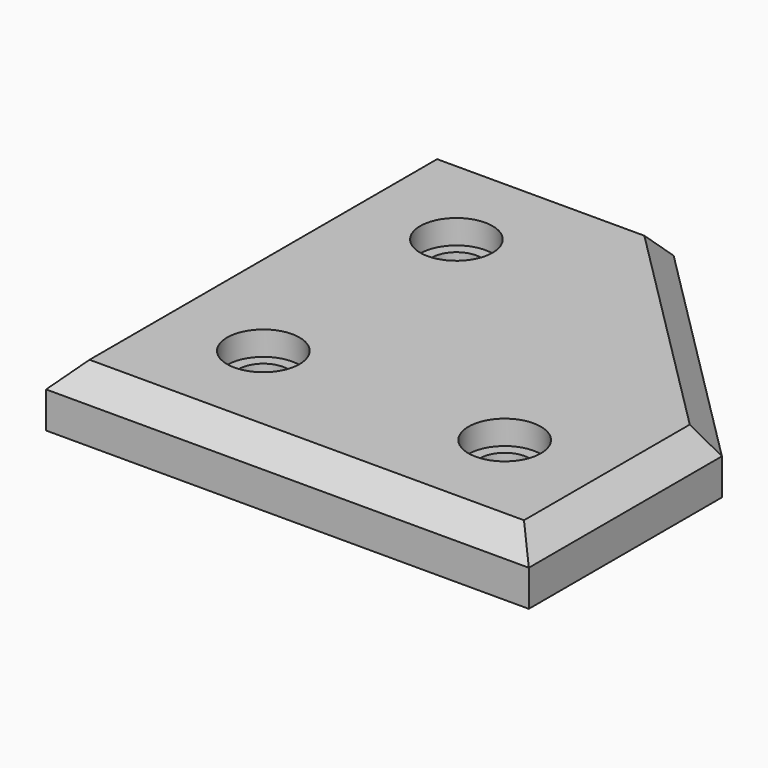
from build123d import *

# Parameters (mm, degrees)
SKETCH_R         = 2.05
EXTRUDE001_DEPTH = 5
CHAMFER_SIZE     = 2
SKETCH001_R      = 3
POCKET_DEPTH     = 2


with BuildPart() as part:
    # Sketch → Extrude001 (new body)
    with BuildSketch(Plane.XY):
        Polygon((0, 0), (0, 40), (20, 40), (40, 20), (40, 0), align=None)
        with Locations((10, 10)):
            Circle(SKETCH_R, mode=Mode.SUBTRACT)
        with Locations((10, 30)):
            Circle(SKETCH_R, mode=Mode.SUBTRACT)
        with Locations((30, 10)):
            Circle(SKETCH_R, mode=Mode.SUBTRACT)
    extrude(amount=EXTRUDE001_DEPTH)

    # Chamfer
    chamfer_edges = [part.edges().sort_by_distance(p)[0] for p in [
        (0, 20, 5),
        (10, 40, 5),
        (30, 30, 5),
        (40, 10, 5),
        (20, 0, 5),
    ]]
    chamfer(chamfer_edges, length=CHAMFER_SIZE)

    # Sketch001 → Pocket (cut)
    with BuildSketch(Plane.XY.offset(5)):
        with Locations((10, 30)):
            Circle(SKETCH001_R)
        with Locations((10, 10)):
            Circle(SKETCH001_R)
        with Locations((30, 10)):
            Circle(SKETCH001_R)
    extrude(amount=-POCKET_DEPTH, mode=Mode.SUBTRACT)


solid = part.part
